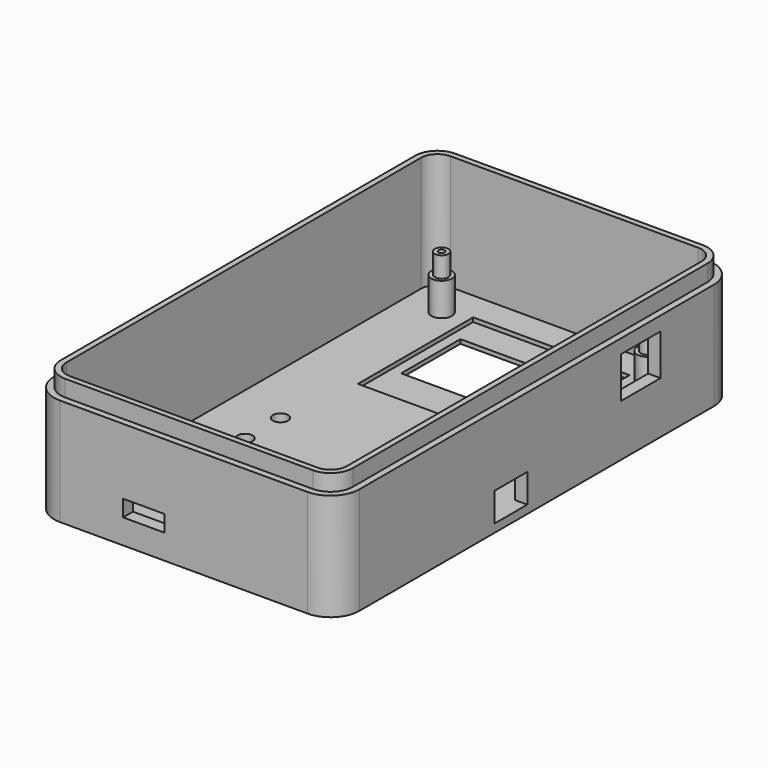
from build123d import *

# Parameters (mm, degrees)
PAD_DEPTH         = 2
SKETCH004_W       = 38
SKETCH004_H       = 35
POCKET_DEPTH      = 1
SKETCH003_W       = 33
SKETCH003_H       = 18
POCKET001_DEPTH   = 2
SKETCH005_R       = 1.85
POCKET002_DEPTH   = 2
SKETCH006_R       = 2.5
PAD001_DEPTH      = 10
SKETCH007_R       = 1.65
PAD002_DEPTH      = 15
PAD003_DEPTH      = 26
PAD004_DEPTH      = 30
CYLINDER_R        = 0.75
CYLINDER_DEPTH    = 10
CYLINDER001_R     = 0.75
CYLINDER001_DEPTH = 10
CYLINDER002_R     = 0.75
CYLINDER002_DEPTH = 10
CYLINDER003_R     = 0.75
CYLINDER003_DEPTH = 10
SKETCH008_W       = 3
SKETCH008_H       = 12
POCKET003_DEPTH   = 10
BOX_W             = 4
BOX_H             = 10
BOX_DEPTH         = 7
SKETCH009_W       = 10.000002
SKETCH009_H       = 3
POCKET004_DEPTH   = 4


with BuildPart() as part:
    # Sketch → Pad (new body)
    with BuildSketch(Plane.XY):
        with BuildLine():
            Line((0, 114.650046), (0, 7))
            ThreePointArc((0, 7), (2.050253, 2.050253), (7, 0))
            Line((7, 0), (67.149994, 0))
            ThreePointArc((67.149994, 0), (72.099741, 2.050253), (74.149994, 7))
            Line((74.149994, 7), (74.149994, 114.650046))
            ThreePointArc((74.149994, 114.650046), (72.099741, 119.599793), (67.149994, 121.650046))
            Line((67.149994, 121.650046), (7, 121.650046))
            ThreePointArc((7, 121.650046), (2.050253, 119.599793), (0, 114.650046))
        make_face()
    extrude(amount=PAD_DEPTH)

    # Sketch004 → Pocket (cut)
    with BuildSketch(Plane.XY.offset(2)):
        with Locations((37.074997, 94.150046)):
            Rectangle(SKETCH004_W, SKETCH004_H)
    extrude(amount=-POCKET_DEPTH, mode=Mode.SUBTRACT)

    # Sketch003 → Pocket001 (cut)
    with BuildSketch(Plane.XY.offset(2)):
        with Locations((37.074997, 95.650046)):
            Rectangle(SKETCH003_W, SKETCH003_H)
    extrude(amount=-POCKET001_DEPTH, mode=Mode.SUBTRACT)

    # Sketch005 → Pocket002 (cut)
    with BuildSketch(Plane.XY.offset(2)):
        with Locations((15.325171, 35.075006)):
            Circle(SKETCH005_R)
        with Locations((15.325058, 45.825065)):
            Circle(SKETCH005_R)
        with Locations((15.325117, 56.575053)):
            Circle(SKETCH005_R)
    extrude(amount=-POCKET002_DEPTH, mode=Mode.SUBTRACT)

    # Sketch006 → Pad001 (join)
    with BuildSketch(Plane.XY):
        with Locations((62.075039, 22.075116)):
            Circle(SKETCH006_R)
        with Locations((12.075062, 22.075062)):
            Circle(SKETCH006_R)
        with Locations((12.075024, 109.57503)):
            Circle(SKETCH006_R)
        with Locations((62.075044, 109.575056)):
            Circle(SKETCH006_R)
    extrude(amount=PAD001_DEPTH)

    # Sketch007 → Pad002 (join)
    with BuildSketch(Plane.XY):
        with Locations((62.075039, 22.075116)):
            Circle(SKETCH007_R)
        with Locations((12.075062, 22.075062)):
            Circle(SKETCH007_R)
        with Locations((62.075044, 109.575056)):
            Circle(SKETCH007_R)
        with Locations((12.075024, 109.57503)):
            Circle(SKETCH007_R)
    extrude(amount=PAD002_DEPTH)

    # Sketch001 → Pad003 (join)
    with BuildSketch(Plane.XY):
        with BuildLine():
            Line((0, 114.650046), (0, 7))
            ThreePointArc((0, 7), (2.050253, 2.050253), (7, 0))
            Line((7, 0), (67.149994, 0))
            ThreePointArc((67.149994, 0), (72.099741, 2.050253), (74.149994, 7))
            Line((74.149994, 7), (74.149994, 114.650046))
            ThreePointArc((74.149994, 114.650046), (72.099741, 119.599793), (67.149994, 121.650046))
            Line((67.149994, 121.650046), (7, 121.650046))
            ThreePointArc((7, 121.650046), (2.050253, 119.599793), (0, 114.650046))
        make_face()
        with BuildLine():
            Line((67.149994, 118.650046), (7, 118.650046))
            ThreePointArc((7, 118.650046), (4.171573, 117.478473), (3, 114.650046))
            Line((3, 114.650046), (3, 7))
            ThreePointArc((3, 7), (4.171573, 4.171573), (7, 3))
            Line((7, 3), (67.149994, 3))
            ThreePointArc((67.149994, 3), (69.978421, 4.171573), (71.149994, 7))
            Line((71.149994, 7), (71.149994, 114.650046))
            ThreePointArc((71.149994, 114.650046), (69.978421, 117.478473), (67.149994, 118.650046))
        make_face(mode=Mode.SUBTRACT)
    extrude(amount=PAD003_DEPTH)

    # Sketch002 → Pad004 (join)
    with BuildSketch(Plane.XY):
        with BuildLine():
            Line((67.149994, 120.050046), (7, 120.050046))
            ThreePointArc((7, 120.050046), (3.181623, 118.468423), (1.6, 114.650046))
            Line((1.6, 114.650046), (1.6, 7))
            ThreePointArc((1.6, 7), (3.181623, 3.181623), (7, 1.6))
            Line((7, 1.6), (67.149994, 1.6))
            ThreePointArc((67.149994, 1.6), (70.968371, 3.181623), (72.549994, 7))
            Line((72.549994, 7), (72.549994, 114.650046))
            ThreePointArc((72.549994, 114.650046), (70.968371, 118.468423), (67.149994, 120.050046))
        make_face()
        with BuildLine():
            Line((67.149994, 118.650046), (7, 118.650046))
            ThreePointArc((7, 118.650046), (4.171573, 117.478473), (3, 114.650046))
            Line((3, 114.650046), (3, 7))
            ThreePointArc((3, 7), (4.171573, 4.171573), (7, 3))
            Line((7, 3), (67.149994, 3))
            ThreePointArc((67.149994, 3), (69.978421, 4.171573), (71.149994, 7))
            Line((71.149994, 7), (71.149994, 114.650046))
            ThreePointArc((71.149994, 114.650046), (69.978421, 117.478473), (67.149994, 118.650046))
        make_face(mode=Mode.SUBTRACT)
    extrude(amount=PAD004_DEPTH)

    # Cylinder → Cylinder (cut)
    with BuildSketch(Plane(origin=(12.075062, 22.075062, 15), x_dir=(-1, 0, 0), z_dir=(0, 0, -1))):
        Circle(CYLINDER_R)
    extrude(amount=CYLINDER_DEPTH, mode=Mode.SUBTRACT)

    # Cylinder001 → Cylinder001 (cut)
    with BuildSketch(Plane(origin=(62.075039, 22.075116, 15), x_dir=(-1, 0, 0), z_dir=(0, 0, -1))):
        Circle(CYLINDER001_R)
    extrude(amount=CYLINDER001_DEPTH, mode=Mode.SUBTRACT)

    # Cylinder002 → Cylinder002 (cut)
    with BuildSketch(Plane(origin=(62.075044, 109.575056, 15), x_dir=(-1, 0, 0), z_dir=(0, 0, -1))):
        Circle(CYLINDER002_R)
    extrude(amount=CYLINDER002_DEPTH, mode=Mode.SUBTRACT)

    # Cylinder003 → Cylinder003 (cut)
    with BuildSketch(Plane(origin=(12.075024, 109.57503, 15), x_dir=(-1, 0, 0), z_dir=(0, 0, -1))):
        Circle(CYLINDER003_R)
    extrude(amount=CYLINDER003_DEPTH, mode=Mode.SUBTRACT)

    # Sketch008 → Pocket003 (cut)
    with BuildSketch(Plane.XY.offset(12.6)):
        with Locations((72.649994, 92.446222)):
            Rectangle(SKETCH008_W, SKETCH008_H)
    extrude(amount=POCKET003_DEPTH, mode=Mode.SUBTRACT)

    # Box → Box (cut)
    with BuildSketch(Plane(origin=(70.192996, 47.991786, 2), x_dir=(0.999999, 0.001479, 0), z_dir=(0, 0, 1))):
        with Locations((2, 5)):
            Rectangle(BOX_W, BOX_H)
    extrude(amount=BOX_DEPTH, mode=Mode.SUBTRACT)

    # Sketch009 → Pocket004 (cut)
    with BuildSketch(Plane.XY.offset(6)):
        with Locations((27.364886, 1.5)):
            Rectangle(SKETCH009_W, SKETCH009_H)
    extrude(amount=POCKET004_DEPTH, mode=Mode.SUBTRACT)


solid = part.part
